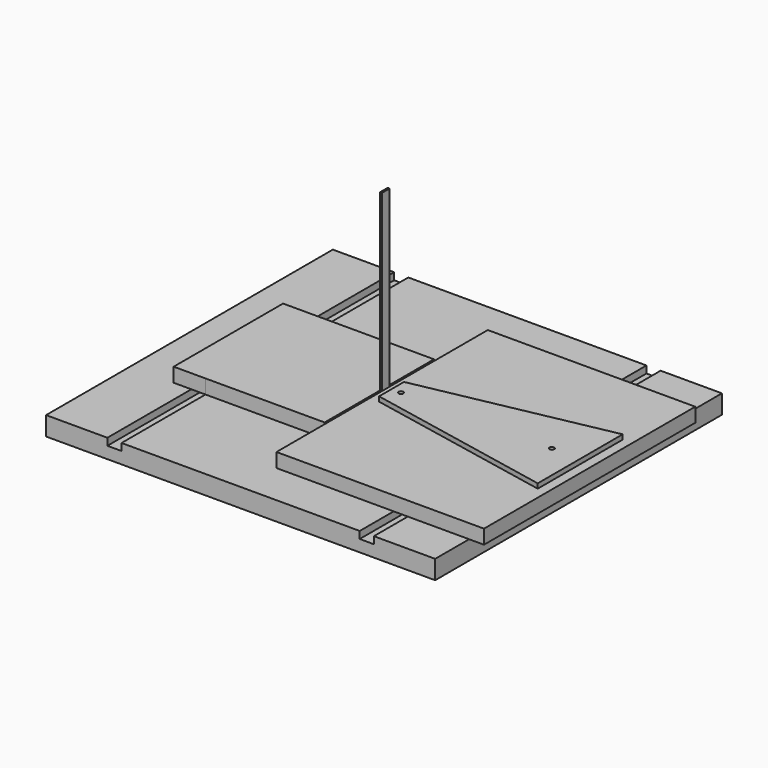
from build123d import *

# Parameters (mm, degrees)
F0_W     = 82.55
F0_H     = 482.6
F0_W_2   = 320.675
F0_W_3   = 2.54
F0_H_2   = 12.7
F0_W_4   = 19.05
F1_DEPTH = 25.4
F2_DEPTH = 9.525
F3_DEPTH = 254
F4_R     = 3.175
F4_W     = 121.6025
F4_H     = 355.6
F5_DEPTH = 19.05
F4_W_2   = 42.8625
F4_H_2   = 184.129153
F6_DEPTH = 19.05
F7_R     = 3.175
F8_DEPTH = 6.35


with BuildPart() as f1:
    # F0 (on Top) → F1 (new body)
    with BuildSketch(Plane.XY):
        with Locations((192.23037, 59.466296)):
            Rectangle(F0_W, F0_H)
        with Locations((-28.43213, 59.466296)):
            Rectangle(F0_W_2, F0_H)
        with Locations((-27.16213, 59.466296)):
            Rectangle(F0_W_3, F0_H_2, mode=Mode.SUBTRACT)
        with Locations((-249.09463, 59.466296)):
            Rectangle(F0_W, F0_H)
        with Locations((-198.29463, 59.466296)):
            Rectangle(F0_W_4, F0_H)
        with Locations((141.43037, 59.466296)):
            Rectangle(F0_W_4, F0_H)
    extrude(amount=-F1_DEPTH)

    # F0 (on Top) → F2 (cut)
    with BuildSketch(Plane.XY):
        with Locations((-198.29463, 59.466296)):
            Rectangle(F0_W_4, F0_H)
        with Locations((141.43037, 59.466296)):
            Rectangle(F0_W_4, F0_H)
    extrude(amount=-F2_DEPTH, mode=Mode.SUBTRACT)


with BuildPart() as f3:
    # F0 (on Top) → F3 (new body)
    with BuildSketch(Plane.XY):
        with Locations((-27.16213, 59.466296)):
            Rectangle(F0_W_3, F0_H_2)
    extrude(amount=F3_DEPTH)


with BuildPart() as f5:
    # F4 (on face) → F5 (new body)
    with BuildSketch(Plane.XY):
        Polygon((131.90537, 230.916296), (-25.89213, 230.916296), (-25.89213, 65.816296), (-25.89213, 53.116296), (-25.89213, -124.683704), (131.90537, -124.683704), align=None)
        with Locations((-0.49213, 53.116296)):
            Circle(F4_R, mode=Mode.SUBTRACT)
        with Locations((192.70662, 53.116296)):
            Rectangle(F4_W, F4_H)
        with Locations((202.70787, 53.116296)):
            Circle(F4_R, mode=Mode.SUBTRACT)
    extrude(amount=F5_DEPTH)


with BuildPart() as f6:
    # F4 (on face) → F6 (new body)
    with BuildSketch(Plane.XY):
        Polygon((-28.43213, 53.116296), (-28.43213, 65.816296), (-28.43213, 143.610016), (-188.76963, 143.610016), (-188.76963, -40.519137), (-28.43213, -40.519137), align=None)
        with Locations((-210.20088, 51.54544)):
            Rectangle(F4_W_2, F4_H_2)
    extrude(amount=F6_DEPTH)


with BuildPart() as f8:
    # F7 (on face) → F8 (new body)
    with BuildSketch(Plane.XY.offset(19.05)):
        Polygon((240.80787, 124.595038), (-13.19213, 74.071296), (-13.19213, 32.161296), (240.80787, -18.362445), align=None)
        with Locations((-0.49213, 53.116296)):
            Circle(F7_R, mode=Mode.SUBTRACT)
        with Locations((202.70787, 53.116296)):
            Circle(F7_R, mode=Mode.SUBTRACT)
    extrude(amount=F8_DEPTH)


solid = Compound([f1.part, f3.part, f5.part, f6.part, f8.part])
